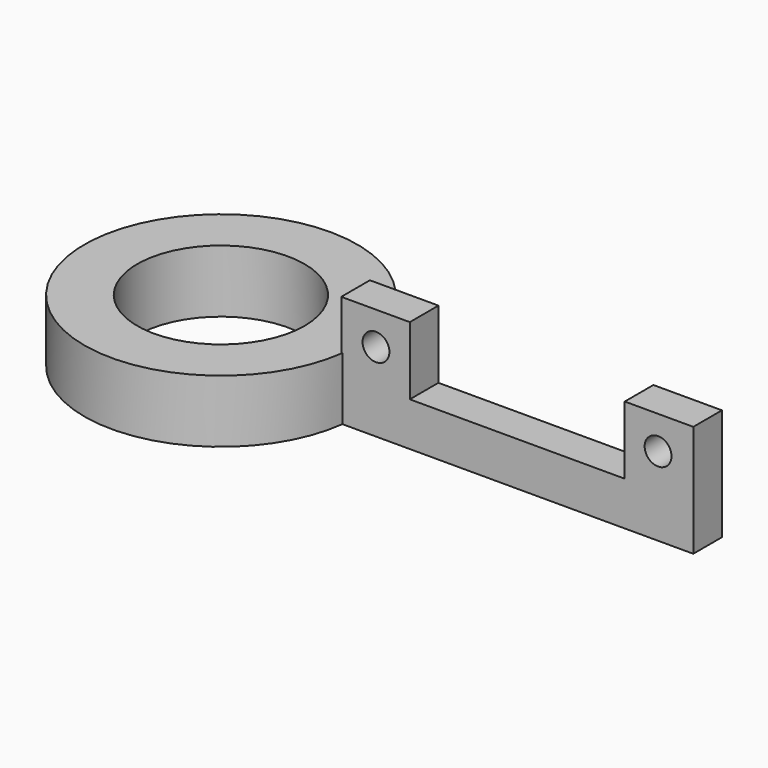
from build123d import *

# Parameters (mm, degrees)
BOX_W        = 50.8
BOX_H        = 12.7
BOX_DEPTH    = 12.7
PAD001_DEPTH = 4.064
SKETCH002_R  = 1.524
POCKET_DEPTH = 4.064
SKETCH_R     = 15.5
SKETCH_R_2   = 9.5
PAD_DEPTH    = 7.112


with BuildPart() as cube:
    # Box → Box (new body)
    with BuildSketch(Plane(origin=(-31.75, -63.5, 12.7), x_dir=(1, 0, 0), z_dir=(0, 0, 1))):
        with Locations((25.4, 6.35)):
            Rectangle(BOX_W, BOX_H)
    extrude(amount=BOX_DEPTH)


with BuildPart() as pocket:
    # Sketch001 → Pad001 (new body)
    with BuildSketch(Plane.XZ.offset(62.523445)):
        Polygon((-26.256083, 0.01423), (-26.256083, 25.000831), (-18.475065, 25.000831), (-18.475065, 4.985023), (5.922138, 4.985023), (5.922138, 25.000831), (13.703156, 25.000831), (13.703156, 0.01423), align=None)
    extrude(amount=-PAD001_DEPTH)

    # Sketch002 → Pocket (cut)
    with BuildSketch(Plane.XZ.offset(62.523445)):
        with Locations((-22.313841, 8.966419)):
            Circle(SKETCH002_R)
        with Locations((9.706401, 8.957657)):
            Circle(SKETCH002_R)
        Polygon((-21.182388, 22.588652), (-20.423353, 21.006459), (-21.197212, 19.431463), (-22.909247, 19.04623), (-24.284375, 20.136409), (-24.284375, 21.891251), (-22.896394, 22.965019), align=None)
        Polygon((10.823041, 22.583467), (11.583767, 20.99775), (10.808184, 19.419245), (9.092335, 19.033154), (7.714144, 20.125762), (7.714144, 21.884513), (9.105217, 22.960673), align=None)
    extrude(amount=-POCKET_DEPTH, mode=Mode.SUBTRACT)


with BuildPart() as cut:
    # Sketch → Pad (new body)
    with BuildSketch(Plane(origin=(-4.199891, 0, 2.6e-05), x_dir=(1, 0, -1e-06), z_dir=(-1e-06, 0, -1))):
        with Locations((-37.314136, 60.529943)):
            Circle(SKETCH_R)
        with Locations((-37.314136, 60.529943)):
            Circle(SKETCH_R_2, mode=Mode.SUBTRACT)
    extrude(amount=-PAD_DEPTH)

    # Fusion: union Pocket
    add(pocket.part)

    # Cut: cut Cube
    add(cube.part, mode=Mode.SUBTRACT)


solid = cut.part
